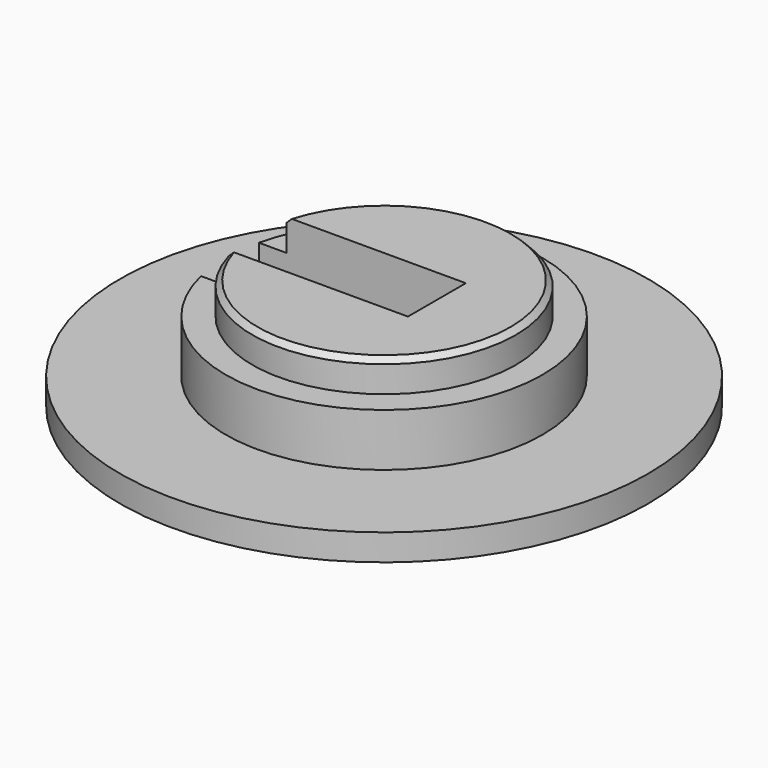
from build123d import *

# Parameters (mm, degrees)
F0_R          = 50
F1_DEPTH      = 5
F2_R          = 30
F3_DEPTH      = 10
F4_R          = 24.95
F5_DEPTH      = 6
F6_W          = 13.7062855065
F6_H          = 30
F7_DEPTH      = 100
F7_DEPTH_BACK = 10
F8_SIZE       = 1


with BuildPart() as f1:
    # F0 (on Top) → F1 (new body)
    with BuildSketch(Plane.XY):
        Circle(F0_R)
    extrude(amount=F1_DEPTH)

    # F2 (on face) → F3 (join)
    with BuildSketch(Plane.XY.offset(5)):
        Circle(F2_R)
    extrude(amount=F3_DEPTH)

    # F4 (on face) → F5 (join)
    with BuildSketch(Plane.XY.offset(15)):
        Circle(F4_R)
    extrude(amount=F5_DEPTH)

    # F6 (on Right) → F7 (cut, two sides)
    with BuildSketch(Plane.YZ) as f7_sk:
        with Locations((0, 21)):
            Rectangle(F6_W, F6_H)
    extrude(amount=-F7_DEPTH, mode=Mode.SUBTRACT)
    extrude(f7_sk.sketch, amount=F7_DEPTH_BACK, mode=Mode.SUBTRACT)

    # F8
    f8_edges = [f1.edges().sort_by_distance(p)[0] for p in [
        (24.95, 0, 21),
    ]]
    chamfer(f8_edges, length=F8_SIZE)


solid = f1.part
